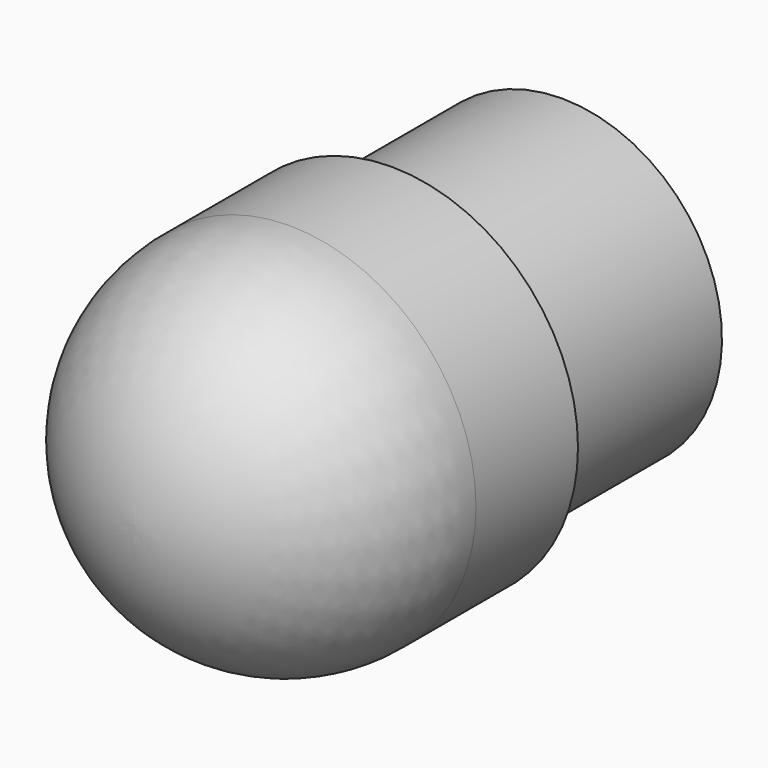
from build123d import *


with BuildPart() as f1:
    # F0 (on Right) → F1 (revolve)
    with BuildSketch(Plane.YZ):
        with BuildLine():
            Line((-50, 0), (0, 0))
            Line((0, 0), (0, 15))
            Line((0, 15), (-20, 15))
            Line((-20, 15), (-20, 17.491798))
            Line((-20, 17.491798), (-31.964283, 17.491798))
            ThreePointArc((-31.964283, 17.491798), (-44.683492, 12.562346), (-50, 0))
        make_face()
    revolve(axis=Axis((0, -25, 0), (0, -1, 0)))


solid = f1.part
